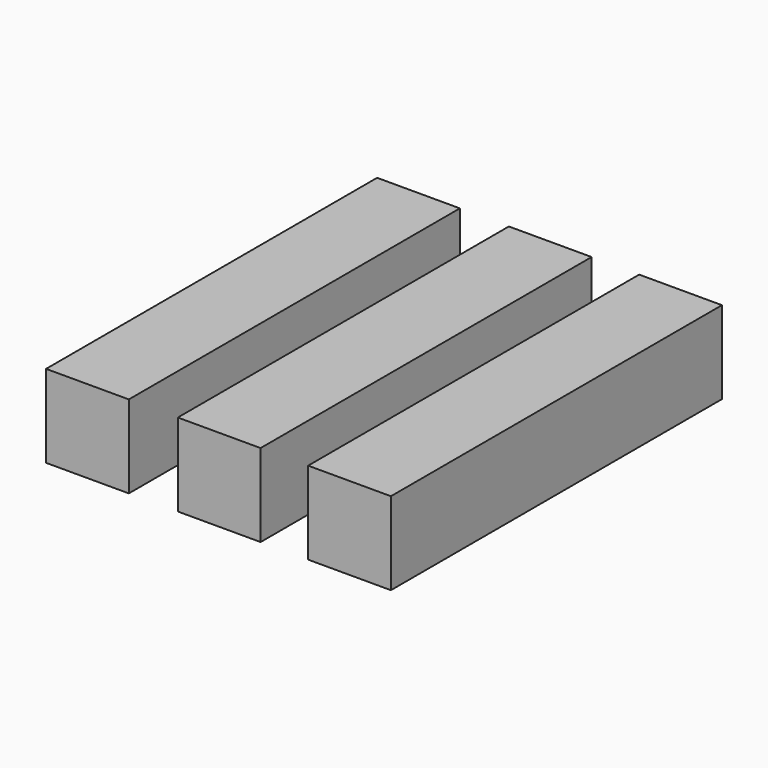
from build123d import *

# Parameters (mm, degrees)
F0_W     = 25.4
F0_H     = 25.4
F1_DEPTH = 63.5
F2_DEPTH = 63.5
F3_DEPTH = 63.5


with BuildPart() as f1:
    # F0 (on Front) → F1 (new body, symmetric)
    with BuildSketch(Plane.XZ):
        with Locations((-40.435629, 0)):
            Rectangle(F0_W, F0_H)
    extrude(amount=F1_DEPTH, both=True)


with BuildPart() as f2:
    # F0 (on Front) → F2 (new body, symmetric)
    with BuildSketch(Plane.XZ):
        Rectangle(F0_W, F0_H)
    extrude(amount=F2_DEPTH, both=True)


with BuildPart() as f3:
    # F0 (on Front) → F3 (new body, symmetric)
    with BuildSketch(Plane.XZ):
        with Locations((39.997695, 0)):
            Rectangle(F0_W, F0_H)
    extrude(amount=F3_DEPTH, both=True)


solid = Compound([f1.part, f2.part, f3.part])
